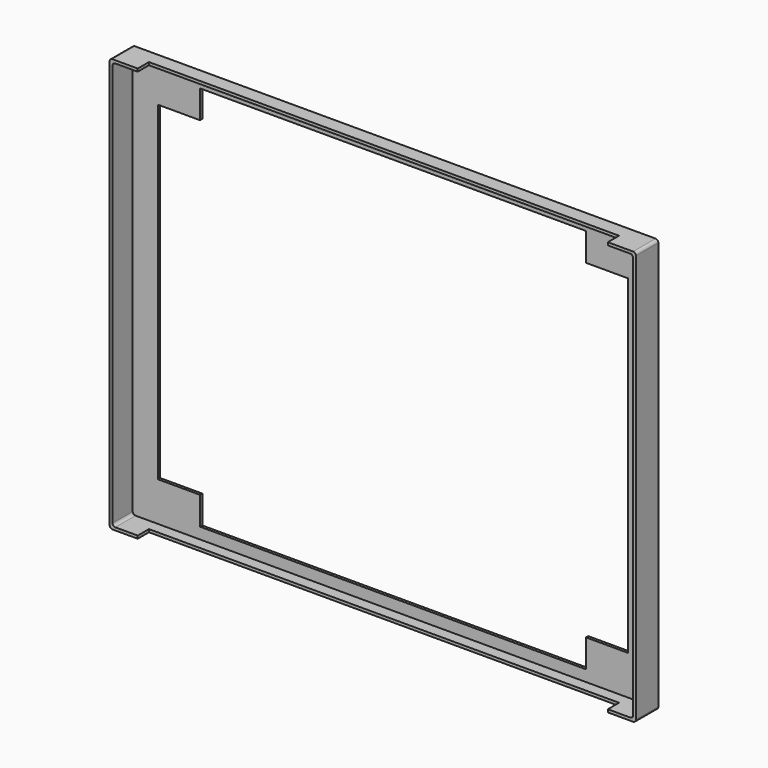
from build123d import *

# Parameters (mm, degrees)
F0_W      = 850.9
F0_H      = 25.4
F1_DEPTH  = 5.08
F3_DEPTH  = 5.08
F5_DEPTH  = 5.08
F7_DEPTH  = 5.08
F8_W      = 50.8
F8_H      = 749.3
F9_DEPTH  = 5.08
F10_R     = 5.08
F11_W     = 76.2
F11_H     = 50.8
F12_DEPTH = 5.08


with BuildPart() as f1:
    # F0 (on Front) → F1 (new body)
    with BuildSketch(Plane.XZ):
        Polygon((50.8, 50.8), (0, 0), (50.8, 0), (50.8, 25.4), align=None)
        Polygon((0, 749.3), (0, 0), (50.8, 50.8), (50.8, 698.5), align=None)
        Polygon((50.8, 749.3), (0, 749.3), (50.8, 698.5), (50.8, 723.9), align=None)
        with Locations((476.25, 12.7)):
            Rectangle(F0_W, F0_H)
        with Locations((476.25, 736.6)):
            Rectangle(F0_W, F0_H)
        Polygon((901.7, 25.4), (901.7, 0), (952.5, 0), (901.7, 50.8), align=None)
        Polygon((952.5, 749.3), (901.7, 749.3), (901.7, 723.9), (901.7, 698.5), align=None)
        Polygon((901.7, 50.8), (952.5, 0), (952.5, 749.3), (901.7, 698.5), align=None)
    extrude(amount=F1_DEPTH)

    # F2 (on face) → F3 (join)
    with BuildSketch(Plane(origin=(0, 0, 0), x_dir=(1, 0, 0), z_dir=(0, 0, -1))):
        Polygon((0, 50.8), (0, 0), (952.5, 0), (952.5, 50.8), (901.7, 50.8), (901.7, 25.4), (50.8, 25.4), (50.8, 50.8), align=None)
    extrude(amount=-F3_DEPTH)

    # F4 (on face) → F5 (join)
    with BuildSketch(Plane.XY.offset(749.3)):
        Polygon((952.5, 0), (0, 0), (0, -50.8), (50.8, -50.8), (50.8, -25.4), (901.7, -25.4), (901.7, -50.8), (952.5, -50.8), align=None)
    extrude(amount=-F5_DEPTH)

    # F6 (on face) → F7 (join)
    with BuildSketch(Plane(origin=(0, 0, 0), x_dir=(0, -1, 0), z_dir=(-1, 0, 0))):
        Polygon((0.254638, 744.22), (0.254638, 0), (50.8, 0), (50.8, 749.3), align=None)
    extrude(amount=-F7_DEPTH)

    # F8 (on face) → F9 (join)
    with BuildSketch(Plane.YZ.offset(952.5)):
        with Locations((-25.4, 374.65)):
            Rectangle(F8_W, F8_H)
    extrude(amount=-F9_DEPTH)

    # F10
    f10_edges = [f1.edges().sort_by_distance(p)[0] for p in [
        (0, -25.4, 0),
        (5.08, -27.94, 5.08),
        (5.08, -27.94, 744.22),
        (0, -25.4, 749.3),
        (952.5, -25.4, 749.3),
        (947.42, -27.94, 744.22),
        (952.5, -25.4, 0),
        (947.42, -27.94, 5.08),
    ]]
    fillet(f10_edges, radius=F10_R)

    # F11 (on face) → F12 (join)
    with BuildSketch(Plane.XZ.offset(5.08)):
        with Locations((863.6, 698.5)):
            Rectangle(F11_W, F11_H)
        with Locations((863.6, 50.8)):
            Rectangle(F11_W, F11_H)
        with Locations((88.9, 50.8)):
            Rectangle(F11_W, F11_H)
        with Locations((88.9, 698.5)):
            Rectangle(F11_W, F11_H)
    extrude(amount=-F12_DEPTH)


solid = f1.part
